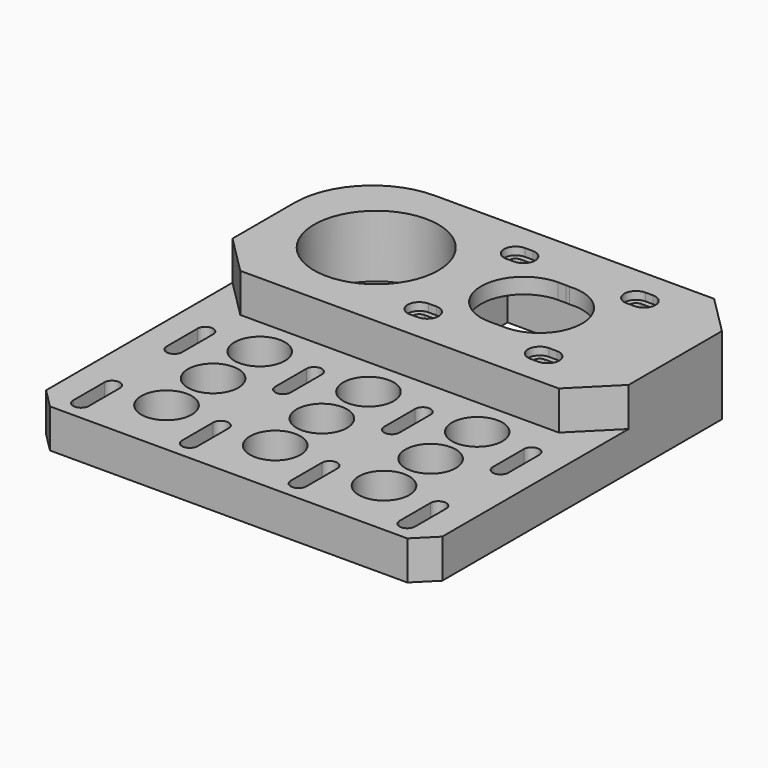
from build123d import *

# Parameters (mm, degrees)
SKETCH_W                           = 102
SKETCH_H                           = 105
SKETCH_R                           = 11
SKETCH_R_2                         = 13.5
PAD_DEPTH                          = 20
SKETCH001_W                        = 102
SKETCH001_H                        = 55
POCKET_DEPTH                       = 10
SKETCH002_W                        = 42
SKETCH002_H                        = 42
POCKET001_DEPTH                    = 16
POCKET002_DEPTH                    = 315.493809
POCKET002_LINEARPATTERN_2_DEPTH    = 315.493809
POCKET002_LINEARPATTERN_3_DEPTH    = 315.493809
POCKET002_LINEARPATTERN_4_DEPTH    = 315.493809
LINEARPATTERN001_COUNT             = 2
LINEARPATTERN001_PITCH             = 30
SKETCH004_R                        = 1.6
POCKET003_DEPTH                    = 4.001
CHAMFER_SIZE                       = 5
CHAMFER001_SIZE                    = 10
FILLET_R                           = 20
SKETCH006_R                        = 16
POCKET004_DEPTH                    = 16
SKETCH007_R                        = 3
POCKET005_DEPTH                    = 2
POCKET006_DEPTH                    = 4.001
SKETCH009_W                        = 4
SKETCH009_H                        = 42
POCKET007_DEPTH                    = 16
POCKET008_DEPTH                    = 2
POCKET009_DEPTH                    = 20.001
SKETCH012_R                        = 6.5
POCKET010_DEPTH                    = 8
SKETCH012_LINEARPATTERN002_2_R     = 6.5
POCKET010_LINEARPATTERN002_2_DEPTH = 8
SKETCH012_LINEARPATTERN002_3_R     = 6.5
POCKET010_LINEARPATTERN002_3_DEPTH = 8
LINEARPATTERN003_COUNT             = 3
LINEARPATTERN003_PITCH             = 15


with BuildPart() as part:
    # Sketch → Pad (new body)
    with BuildSketch(Plane.XY):
        with Locations((-14, -27.5)):
            Rectangle(SKETCH_W, SKETCH_H)
        with Locations((2, 0)):
            Circle(SKETCH_R, mode=Mode.SUBTRACT)
        with Locations((-40, 0)):
            Circle(SKETCH_R_2, mode=Mode.SUBTRACT)
    extrude(amount=PAD_DEPTH)

    # Sketch001 (on Face8 of Pad) → Pocket (cut)
    with BuildSketch(Plane.XY.offset(20)):
        with Locations((-14, -52.5)):
            Rectangle(SKETCH001_W, SKETCH001_H)
    extrude(amount=-POCKET_DEPTH, mode=Mode.SUBTRACT)

    # Sketch002 (on Face2 of Pocket) → Pocket001 (cut)
    with BuildSketch(Plane(origin=(0, 0, 0), x_dir=(1, 0, 0), z_dir=(0, 0, -1))):
        with Locations((2, 0)):
            Rectangle(SKETCH002_W, SKETCH002_H)
    extrude(amount=-POCKET001_DEPTH, mode=Mode.SUBTRACT)

    # Sketch003 (on Face2 of Pocket001) → Pocket002 (cut, through all)
    with BuildSketch(Plane(origin=(0, 0, 0), x_dir=(1, 0, 0), z_dir=(0, 0, -1))):
        with BuildLine():
            ThreePointArc((26, 35), (28, 33), (30, 35))
            Line((30, 35), (30, 45))
            ThreePointArc((30, 45), (28, 47), (26, 45))
            Line((26, 35), (26, 45))
        make_face()
    pocket002 = extrude(amount=-POCKET002_DEPTH, mode=Mode.SUBTRACT)

    # Sketch003 LinearPattern 2 → Pocket002 LinearPattern 2 (cut, through all)
    with BuildSketch(Plane(origin=(-28, 0, 0), x_dir=(1, 0, 0), z_dir=(0, 0, -1))):
        with BuildLine():
            ThreePointArc((26, 35), (28, 33), (30, 35))
            Line((30, 35), (30, 45))
            ThreePointArc((30, 45), (28, 47), (26, 45))
            Line((26, 35), (26, 45))
        make_face()
    pocket002_linearpattern_2 = extrude(amount=-POCKET002_LINEARPATTERN_2_DEPTH, mode=Mode.SUBTRACT)

    # Sketch003 LinearPattern 3 → Pocket002 LinearPattern 3 (cut, through all)
    with BuildSketch(Plane(origin=(-56, 0, 0), x_dir=(1, 0, 0), z_dir=(0, 0, -1))):
        with BuildLine():
            ThreePointArc((26, 35), (28, 33), (30, 35))
            Line((30, 35), (30, 45))
            ThreePointArc((30, 45), (28, 47), (26, 45))
            Line((26, 35), (26, 45))
        make_face()
    pocket002_linearpattern_3 = extrude(amount=-POCKET002_LINEARPATTERN_3_DEPTH, mode=Mode.SUBTRACT)

    # Sketch003 LinearPattern 4 → Pocket002 LinearPattern 4 (cut, through all)
    with BuildSketch(Plane(origin=(-84, 0, 0), x_dir=(1, 0, 0), z_dir=(0, 0, -1))):
        with BuildLine():
            ThreePointArc((26, 35), (28, 33), (30, 35))
            Line((30, 35), (30, 45))
            ThreePointArc((30, 45), (28, 47), (26, 45))
            Line((26, 35), (26, 45))
        make_face()
    pocket002_linearpattern_4 = extrude(amount=-POCKET002_LINEARPATTERN_4_DEPTH, mode=Mode.SUBTRACT)

    # LinearPattern001: Pocket002, Pocket002 LinearPattern 2, Pocket002 LinearPattern 3, Pocket002 LinearPattern 4 ×2
    with Locations(*[(0, -i * LINEARPATTERN001_PITCH, 0) for i in range(1, LINEARPATTERN001_COUNT)]):
        add(pocket002, mode=Mode.SUBTRACT)
        add(pocket002_linearpattern_2, mode=Mode.SUBTRACT)
        add(pocket002_linearpattern_3, mode=Mode.SUBTRACT)
        add(pocket002_linearpattern_4, mode=Mode.SUBTRACT)

    # Sketch004 (on Face46 of MultiTransform) → Pocket003 (cut, through all)
    with BuildSketch(Plane(origin=(0, 0, 16), x_dir=(1, 0, 0), z_dir=(0, 0, -1))):
        with Locations((16.5, 15.5)):
            Circle(SKETCH004_R)
        with Locations((16.5, -15.5)):
            Circle(SKETCH004_R)
        with Locations((-14.5, -15.5)):
            Circle(SKETCH004_R)
        with Locations((-14.5, 15.5)):
            Circle(SKETCH004_R)
    extrude(amount=-POCKET003_DEPTH, mode=Mode.SUBTRACT)

    # Chamfer
    chamfer_edges = [part.edges().sort_by_distance(p)[0] for p in [
        (-65, -80, 5),
        (37, -80, 5),
    ]]
    chamfer(chamfer_edges, length=CHAMFER_SIZE)

    # Chamfer001
    chamfer001_edges = [part.edges().sort_by_distance(p)[0] for p in [
        (37, -25, 15),
        (37, 25, 10),
        (-65, -25, 15),
    ]]
    chamfer(chamfer001_edges, length=CHAMFER001_SIZE)

    # Fillet
    fillet_edges = [part.edges().sort_by_distance(p)[0] for p in [
        (-65, 25, 10),
    ]]
    fillet(fillet_edges, radius=FILLET_R)

    # Sketch006 (on Face47 of Fillet) → Pocket004 (cut)
    with BuildSketch(Plane.XY.offset(20)):
        with Locations((-40, 0)):
            Circle(SKETCH006_R)
    extrude(amount=-POCKET004_DEPTH, mode=Mode.SUBTRACT)

    # Sketch007 (on Face47 of Pocket004) → Pocket005 (cut)
    with BuildSketch(Plane.XY.offset(20)):
        with Locations((16.5, 15.5)):
            Circle(SKETCH007_R)
        with Locations((-14.5, 15.5)):
            Circle(SKETCH007_R)
        with Locations((-14.5, -15.5)):
            Circle(SKETCH007_R)
        with Locations((16.5, -15.5)):
            Circle(SKETCH007_R)
    extrude(amount=-POCKET005_DEPTH, mode=Mode.SUBTRACT)

    # Sketch008 (on Face52 of Pocket005) → Pocket006 (cut, through all)
    with BuildSketch(Plane(origin=(0, 0, 16), x_dir=(1, 0, 0), z_dir=(0, 0, -1))):
        with BuildLine():
            ThreePointArc((-14.5, -17.1), (-12.9, -15.5), (-14.5, -13.9))
            Line((-14.5, -13.9), (-16.5, -13.9))
            ThreePointArc((-16.5, -13.9), (-18.1, -15.5), (-16.5, -17.1))
            Line((-14.5, -17.1), (-16.5, -17.1))
        make_face()
        with BuildLine():
            ThreePointArc((-14.5, 13.9), (-12.9, 15.5), (-14.5, 17.1))
            Line((-14.5, 17.1), (-16.5, 17.1))
            ThreePointArc((-16.5, 17.1), (-18.1, 15.5), (-16.5, 13.9))
            Line((-14.5, 13.9), (-16.5, 13.9))
        make_face()
        with BuildLine():
            ThreePointArc((16.5, 13.9), (18.1, 15.5), (16.5, 17.1))
            Line((16.5, 17.1), (14.5, 17.1))
            ThreePointArc((14.5, 17.1), (12.9, 15.5), (14.5, 13.9))
            Line((16.5, 13.9), (14.5, 13.9))
        make_face()
        with BuildLine():
            ThreePointArc((16.5, -17.1), (18.1, -15.5), (16.5, -13.9))
            Line((16.5, -13.9), (14.5, -13.9))
            ThreePointArc((14.5, -13.9), (12.9, -15.5), (14.5, -17.1))
            Line((16.5, -17.1), (14.5, -17.1))
        make_face()
    extrude(amount=-POCKET006_DEPTH, mode=Mode.SUBTRACT)

    # Sketch009 (on Face1 of Pocket006) → Pocket007 (cut)
    with BuildSketch(Plane(origin=(0, 0, 0), x_dir=(1, 0, 0), z_dir=(0, 0, -1))):
        with Locations((-21, 0)):
            Rectangle(SKETCH009_W, SKETCH009_H)
    extrude(amount=-POCKET007_DEPTH, mode=Mode.SUBTRACT)

    # Sketch010 (on Face49 of Pocket007) → Pocket008 (cut)
    with BuildSketch(Plane.XY.offset(20)):
        with BuildLine():
            ThreePointArc((-14.5, 12.5), (-11.5, 15.5), (-14.5, 18.5))
            Line((-14.5, 18.5), (-16.5, 18.5))
            ThreePointArc((-16.5, 18.5), (-19.5, 15.5), (-16.5, 12.5))
            Line((-14.5, 12.5), (-16.5, 12.5))
        make_face()
        with BuildLine():
            ThreePointArc((16.5, 12.5), (19.5, 15.5), (16.5, 18.5))
            Line((16.5, 18.5), (14.5, 18.5))
            ThreePointArc((14.5, 18.5), (11.5, 15.5), (14.5, 12.5))
            Line((16.5, 12.5), (14.5, 12.5))
        make_face()
        with BuildLine():
            ThreePointArc((16.5, -18.5), (19.5, -15.5), (16.5, -12.5))
            Line((16.5, -12.5), (14.5, -12.5))
            ThreePointArc((14.5, -12.5), (11.5, -15.5), (14.5, -18.5))
            Line((16.5, -18.5), (14.5, -18.5))
        make_face()
        with BuildLine():
            ThreePointArc((-14.5, -18.5), (-11.5, -15.5), (-14.5, -12.5))
            Line((-14.5, -12.5), (-16.5, -12.5))
            ThreePointArc((-16.5, -12.5), (-19.5, -15.5), (-16.5, -18.5))
            Line((-14.5, -18.5), (-16.5, -18.5))
        make_face()
    extrude(amount=-POCKET008_DEPTH, mode=Mode.SUBTRACT)

    # Sketch011 (on Face49 of Pocket008) → Pocket009 (cut, through all)
    with BuildSketch(Plane.XY.offset(20)):
        with BuildLine():
            ThreePointArc((0, -11), (11, 0), (0, 11))
            Line((0, 11), (-2, 11))
            ThreePointArc((-2, 11), (-13, 0), (-2, -11))
            Line((0, -11), (-2, -11))
        make_face()
    extrude(amount=-POCKET009_DEPTH, mode=Mode.SUBTRACT)

    # Sketch012 (on Face51 of Pocket009) → Pocket010 (cut)
    with BuildSketch(Plane.XY.offset(10)):
        with Locations((14, -65)):
            Circle(SKETCH012_R)
    pocket010 = extrude(amount=-POCKET010_DEPTH, mode=Mode.SUBTRACT)

    # Sketch012 LinearPattern002 2 → Pocket010 LinearPattern002 2 (cut)
    with BuildSketch(Plane(origin=(-28, 0, 10), x_dir=(1, 0, 0), z_dir=(0, 0, 1))):
        with Locations((14, -65)):
            Circle(SKETCH012_LINEARPATTERN002_2_R)
    pocket010_linearpattern002_2 = extrude(amount=-POCKET010_LINEARPATTERN002_2_DEPTH, mode=Mode.SUBTRACT)

    # Sketch012 LinearPattern002 3 → Pocket010 LinearPattern002 3 (cut)
    with BuildSketch(Plane(origin=(-56, 0, 10), x_dir=(1, 0, 0), z_dir=(0, 0, 1))):
        with Locations((14, -65)):
            Circle(SKETCH012_LINEARPATTERN002_3_R)
    pocket010_linearpattern002_3 = extrude(amount=-POCKET010_LINEARPATTERN002_3_DEPTH, mode=Mode.SUBTRACT)

    # LinearPattern003: Pocket010, Pocket010 LinearPattern002 2, Pocket010 LinearPattern002 3 ×3
    with Locations(*[(0, i * LINEARPATTERN003_PITCH, 0) for i in range(1, LINEARPATTERN003_COUNT)]):
        add(pocket010, mode=Mode.SUBTRACT)
        add(pocket010_linearpattern002_2, mode=Mode.SUBTRACT)
        add(pocket010_linearpattern002_3, mode=Mode.SUBTRACT)


solid = part.part
